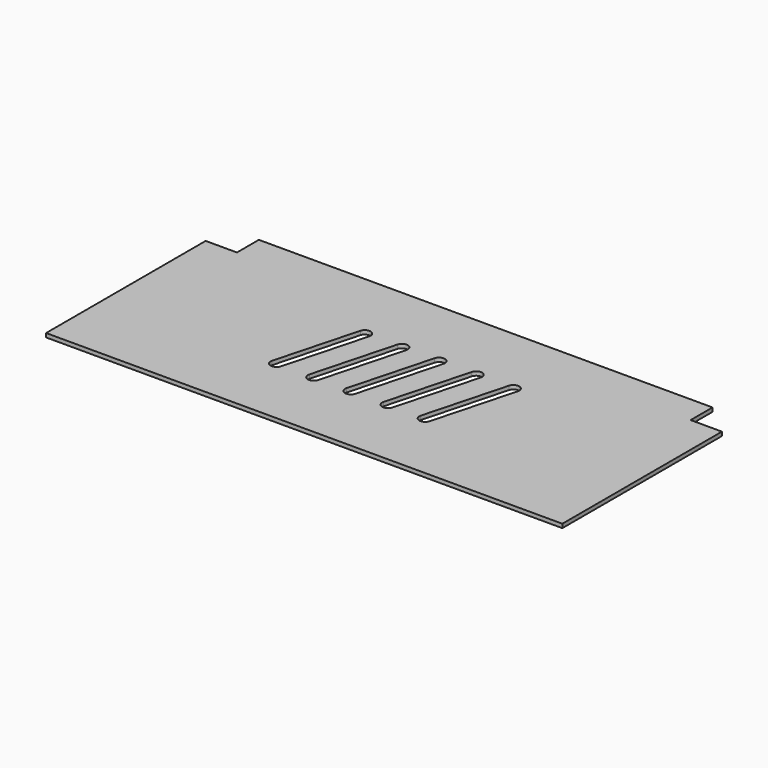
from build123d import *

# Parameters (mm, degrees)
F1_DEPTH = 1


with BuildPart() as f1:
    # F0 (on Top) → F1 (new body)
    with BuildSketch(Plane.XY):
        Polygon((58, 22), (58, 29), (-58, 29), (-58, 22), (-66, 22), (-66, -29), (66, -29), (66, 22), align=None)
        with BuildLine():
            ThreePointArc((-20.378273, -10.93934), (-22.21539, -12), (-23.27605, -10.162883))
            Line((-23.27605, -10.162883), (-17.621727, 10.93934))
            ThreePointArc((-17.621727, 10.93934), (-15.78461, 12), (-14.72395, 10.162883))
            Line((-14.72395, 10.162883), (-20.378273, -10.93934))
        make_face(mode=Mode.SUBTRACT)
        with BuildLine():
            ThreePointArc((-10.878273, -10.93934), (-12.71539, -12), (-13.77605, -10.162883))
            Line((-13.77605, -10.162883), (-8.121727, 10.93934))
            ThreePointArc((-8.121727, 10.93934), (-6.28461, 12), (-5.22395, 10.162883))
            Line((-5.22395, 10.162883), (-10.878273, -10.93934))
        make_face(mode=Mode.SUBTRACT)
        with BuildLine():
            Line((4.27605, 10.162883), (-1.378273, -10.93934))
            ThreePointArc((-1.378273, -10.93934), (-3.21539, -12), (-4.27605, -10.162883))
            Line((-4.27605, -10.162883), (1.378273, 10.93934))
            ThreePointArc((1.378273, 10.93934), (3.21539, 12), (4.27605, 10.162883))
        make_face(mode=Mode.SUBTRACT)
        with BuildLine():
            ThreePointArc((8.121727, -10.93934), (6.28461, -12), (5.22395, -10.162883))
            Line((5.22395, -10.162883), (10.878273, 10.93934))
            ThreePointArc((10.878273, 10.93934), (12.71539, 12), (13.77605, 10.162883))
            Line((13.77605, 10.162883), (8.121727, -10.93934))
        make_face(mode=Mode.SUBTRACT)
        with BuildLine():
            ThreePointArc((17.621727, -10.93934), (15.78461, -12), (14.72395, -10.162883))
            Line((14.72395, -10.162883), (20.378273, 10.93934))
            ThreePointArc((20.378273, 10.93934), (22.21539, 12), (23.27605, 10.162883))
            Line((23.27605, 10.162883), (17.621727, -10.93934))
        make_face(mode=Mode.SUBTRACT)
    extrude(amount=F1_DEPTH)


solid = f1.part
